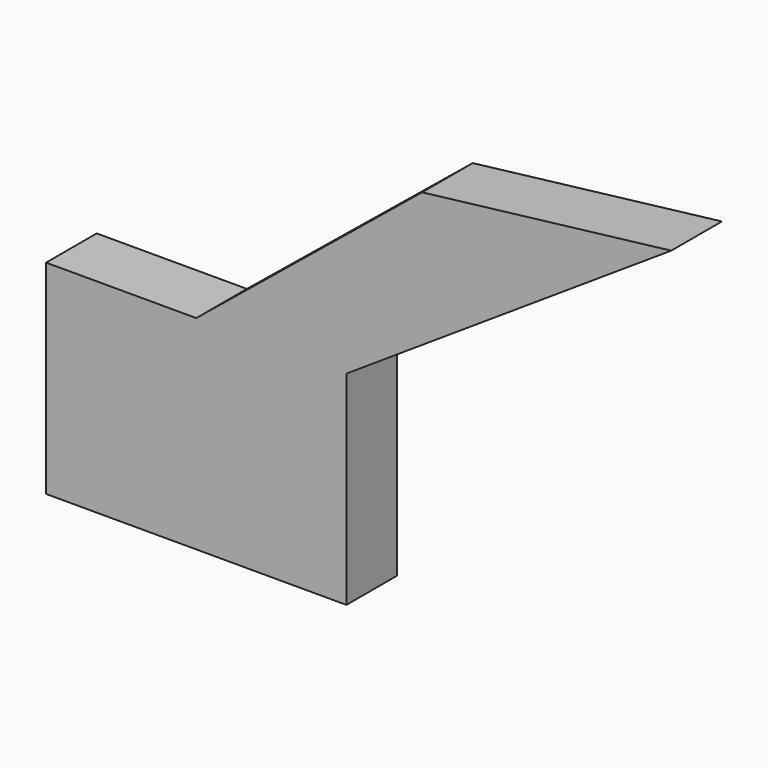
from build123d import *

# Parameters (mm, degrees)
F1_DEPTH = 25.4


with BuildPart() as f1:
    # F0 (on Front) → F1 (new body)
    with BuildSketch(Plane.XZ):
        Polygon((0, 40.874757), (60.281143, 40.874757), (190.667018, 126.703754), (90.644978, 114.797905), align=None)
        Polygon((-60.281143, -40.874757), (60.281143, -40.874757), (60.281143, 40.874757), (0, 40.874757), (-60.281143, 40.874757), align=None)
    extrude(amount=F1_DEPTH)


solid = f1.part
